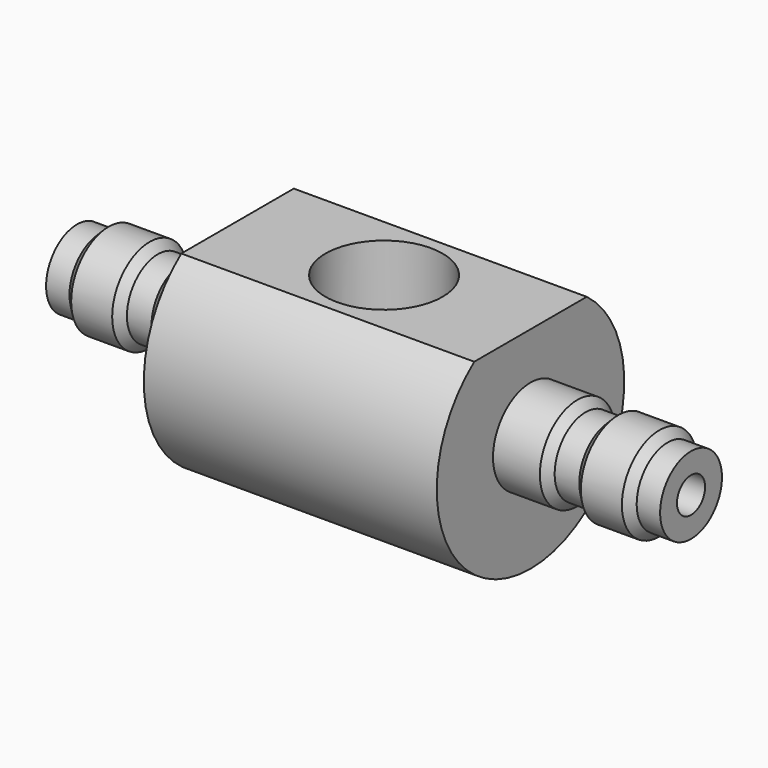
from build123d import *

# Parameters (mm, degrees)
SKETCH001_R     = 1.5
POCKET_DEPTH    = 52.401
POCKET001_DEPTH = 38.701
SKETCH003_R     = 5
POCKET002_DEPTH = 10


with BuildPart() as part:
    # Sketch → Revolution (revolve)
    with BuildSketch(Plane.XY):
        Polygon((-26.2, -3.3), (-24.2, -3.3), (-23.5, -4), (-20, -4), (-19.3, -3.3), (-17.2, -3.3), (-16.5, -4), (-12.5, -4), (-12.5, -10), (12.5, -10), (12.5, -4), (16.5, -4), (17.2, -3.3), (19.3, -3.3), (20, -4), (23.5, -4), (24.2, -3.3), (26.2, -3.3), (26.2, 0), (-26.2, 0), align=None)
    revolve(axis=Axis((0, 0, 0), (1, 0, 0)))

    # Sketch001 (on Face1 of Revolution) → Pocket (cut, through all)
    with BuildSketch(Plane.YZ.offset(26.2)):
        Circle(SKETCH001_R)
    extrude(amount=-POCKET_DEPTH, mode=Mode.SUBTRACT)

    # Sketch002 (on Face16 of Pocket) → Pocket001 (cut, through all)
    with BuildSketch(Plane.YZ.offset(12.5)):
        with BuildLine():
            ThreePointArc((6, 8), (0, 10), (-6, 8))
            Line((-6, 8), (6, 8))
        make_face()
    extrude(amount=-POCKET001_DEPTH, mode=Mode.SUBTRACT)

    # Sketch003 (on Face19 of Pocket001) → Pocket002 (cut)
    with BuildSketch(Plane.XY.offset(8)):
        Circle(SKETCH003_R)
    extrude(amount=-POCKET002_DEPTH, mode=Mode.SUBTRACT)


solid = part.part
